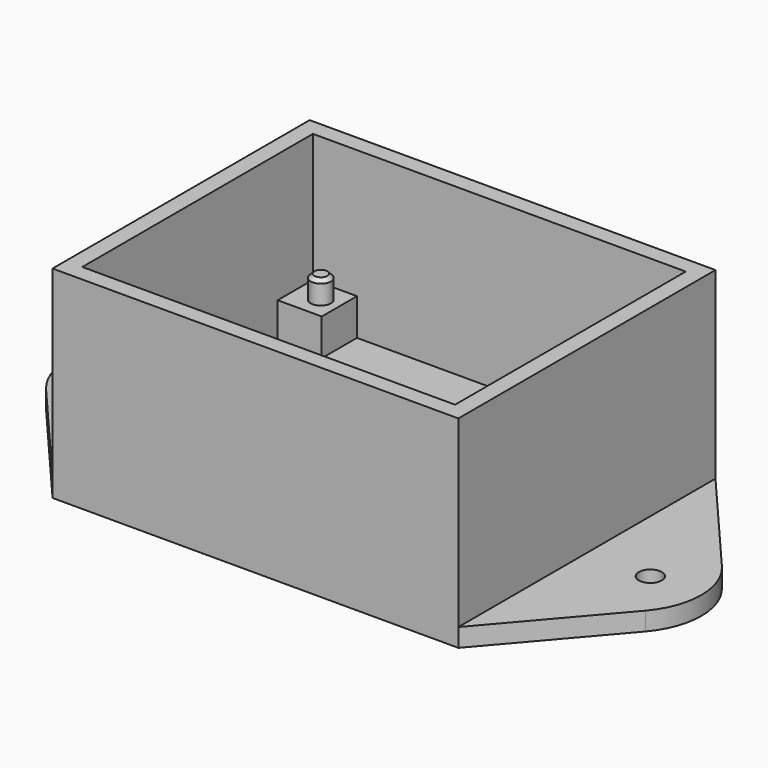
from build123d import *

# Parameters (mm, degrees)
F0_W      = 56.134
F0_H      = 44.45
F1_DEPTH  = 27.94
F2_W      = 51.562
F2_H      = 39.878
F3_DEPTH  = 22.86
F4_W      = 6.096
F4_H      = 6.096
F5_DEPTH  = 5.08
F6_R      = 1.397
F7_DEPTH  = 3.175
F8_SIZE   = 0.508
F10_DEPTH = 2.54
F11_R     = 1.5875
F12_DEPTH = 25.4


with BuildPart() as f1:
    # F0 (on Top) → F1 (new body)
    with BuildSketch(Plane.XY):
        Rectangle(F0_W, F0_H)
    extrude(amount=F1_DEPTH)

    # F2 (on face) → F3 (cut)
    with BuildSketch(Plane.XY.offset(27.94)):
        Rectangle(F2_W, F2_H)
    extrude(amount=-F3_DEPTH, mode=Mode.SUBTRACT)

    # F4 (on face) → F5 (join)
    with BuildSketch(Plane.XY.offset(5.08)):
        with Locations((-22.733, 16.891)):
            Rectangle(F4_W, F4_H)
        with Locations((22.733, 16.891)):
            Rectangle(F4_W, F4_H)
        with Locations((-22.733, -16.891)):
            Rectangle(F4_W, F4_H)
        with Locations((22.733, -16.891)):
            Rectangle(F4_W, F4_H)
    extrude(amount=F5_DEPTH)

    # F6 (on face) → F7 (join)
    with BuildSketch(Plane.XY.offset(10.16)):
        with Locations((-22.225, 16.85925)):
            Circle(F6_R)
        with Locations((22.225, 16.85925)):
            Circle(F6_R)
        with Locations((22.225, -16.85925)):
            Circle(F6_R)
        with Locations((-22.225, -16.85925)):
            Circle(F6_R)
    extrude(amount=F7_DEPTH)

    # F8
    f8_edges = [f1.edges().sort_by_distance(p)[0] for p in [
        (-23.622, 16.85925, 13.335),
        (20.828, 16.85925, 13.335),
        (-23.622, -16.85925, 13.335),
        (20.828, -16.85925, 13.335),
    ]]
    chamfer(f8_edges, length=F8_SIZE)

    # F9 (on face) → F10 (join)
    with BuildSketch(Plane(origin=(0, 0, 0), x_dir=(1, 0, 0), z_dir=(0, 0, -1))):
        with BuildLine():
            Line((41.449537, 6.61204), (28.067, 22.225))
            Line((28.067, 22.225), (28.067, -22.225))
            Line((28.067, -22.225), (41.449537, -6.61204))
            ThreePointArc((41.449537, -6.61204), (43.89549, 0), (41.449537, 6.61204))
        make_face()
        with BuildLine():
            Line((-28.067, -22.225), (-28.067, 22.225))
            Line((-28.067, 22.225), (-41.449537, 6.61204))
            ThreePointArc((-41.449537, 6.61204), (-43.89549, 0), (-41.449537, -6.61204))
            Line((-41.449537, -6.61204), (-28.067, -22.225))
        make_face()
    extrude(amount=-F10_DEPTH)

    # F11 (on face) → F12 (cut)
    with BuildSketch(Plane(origin=(0, 0, 0), x_dir=(1, 0, 0), z_dir=(0, 0, -1))):
        with Locations((-36.83, 0)):
            Circle(F11_R)
        with Locations((36.83, 0)):
            Circle(F11_R)
    extrude(amount=-F12_DEPTH, mode=Mode.SUBTRACT)


solid = f1.part
